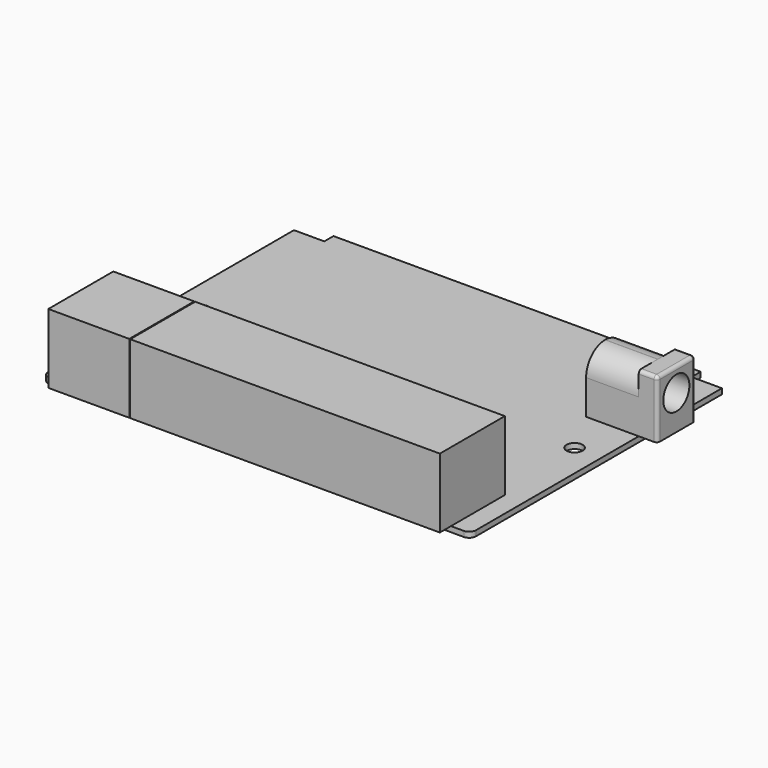
from build123d import *

# Parameters (mm, degrees)
F0_R      = 1.524
F1_DEPTH  = 1.016
F2_W      = 3.5052
F2_H      = 8.9408
F3_DEPTH  = 10.9474
F2_W_2    = 9.906
F4_DEPTH  = 10.9474
F5_R      = 4.445
F6_R      = 0.635
F7_R      = 3.0734
F8_DEPTH  = 10.16
F9_W      = 58.293
F9_H      = 15.2908
F10_DEPTH = 13.081
F11_W     = 15.24
F11_H     = 15.2908
F12_DEPTH = 13.081


with BuildPart() as f1:
    # F0 (on Top) → F1 (new body)
    with BuildSketch(Plane.XY):
        with BuildLine():
            Line((-39.0144, -30.6578), (39.0144, -30.6578))
            ThreePointArc((39.0144, -30.6578), (39.9124256121, -30.2858256121), (40.2844, -29.3878))
            Line((40.2844, -29.3878), (40.2844, 28.4988))
            Line((40.2844, 28.4988), (34.5694, 28.4988))
            Line((34.5694, 28.4988), (34.5694, 30.6578))
            Line((34.5694, 30.6578), (-34.5694, 30.6578))
            Line((-34.5694, 30.6578), (-34.5694, 28.4988))
            Line((-34.5694, 28.4988), (-40.2844, 28.4988))
            Line((-40.2844, 28.4988), (-40.2844, -29.3878))
            ThreePointArc((-40.2844, -29.3878), (-39.9124256121, -30.2858256121), (-39.0144, -30.6578))
        make_face()
        with Locations((-35.2044, 0.1778)):
            Circle(F0_R, mode=Mode.SUBTRACT)
        with Locations((35.2044, 0.1778)):
            Circle(F0_R, mode=Mode.SUBTRACT)
    extrude(amount=F1_DEPTH)

    # F9 (on face) → F10 (join)
    with BuildSketch(Plane.XY.offset(1.016)):
        with Locations((7.4549, -25.6296345744)):
            Rectangle(F9_W, F9_H)
    extrude(amount=F10_DEPTH)



with BuildPart() as f3:
    # F2 (on face) → F3 (new body)
    with BuildSketch(Plane.XY.offset(1.016)):
        with Locations((42.037, 13.3931720629)):
            Rectangle(F2_W, F2_H)
    extrude(amount=F3_DEPTH)

    # F6
    f6_edges = [f3.edges().sort_by_distance(p)[0] for p in [
        (42.037, 8.922772, 11.9634),
        (43.7896, 13.393172, 11.9634),
        (42.037, 17.863572, 11.9634),
        (43.7896, 8.922772, 6.4897),
        (43.7896, 17.863572, 6.4897),
    ]]
    fillet(f6_edges, radius=F6_R)


with BuildPart() as f4:
    # F2 (on face) → F4 (new body)
    with BuildSketch(Plane.XY.offset(1.016)):
        with Locations((35.3314, 13.3931720629)):
            Rectangle(F2_W_2, F2_H)
    extrude(amount=F4_DEPTH)

    # F5
    f5_edges = [f4.edges().sort_by_distance(p)[0] for p in [
        (35.3314, 8.922772, 11.9634),
        (35.3314, 17.863572, 11.9634),
    ]]
    fillet(f5_edges, radius=F5_R)


with BuildPart() as f8_tool:
    # F7 (on face) → F8 (new body)
    with BuildSketch(Plane.YZ.offset(43.7896)):
        with Locations((13.3931720629, 7.5184)):
            Circle(F7_R)
    extrude(amount=-F8_DEPTH)


with BuildPart() as f3_1:
    add(f3.part)

    # F8: cut by f8_tool
    add(f8_tool.part, mode=Mode.SUBTRACT)


with BuildPart() as f4_1:
    add(f4.part)

    # F8: cut by f8_tool
    add(f8_tool.part, mode=Mode.SUBTRACT)


with BuildPart() as f1_1:
    add(f1.part)

    add(f3_1.part)  # F12 merges F3

    add(f4_1.part)  # F12 merges F4
    # F11 (on face) → F12 (join)
    with BuildSketch(Plane.XY.offset(1.016)):
        with Locations((-29.4894, -25.6296345744)):
            Rectangle(F11_W, F11_H)
    extrude(amount=F12_DEPTH)


solid = f1_1.part
